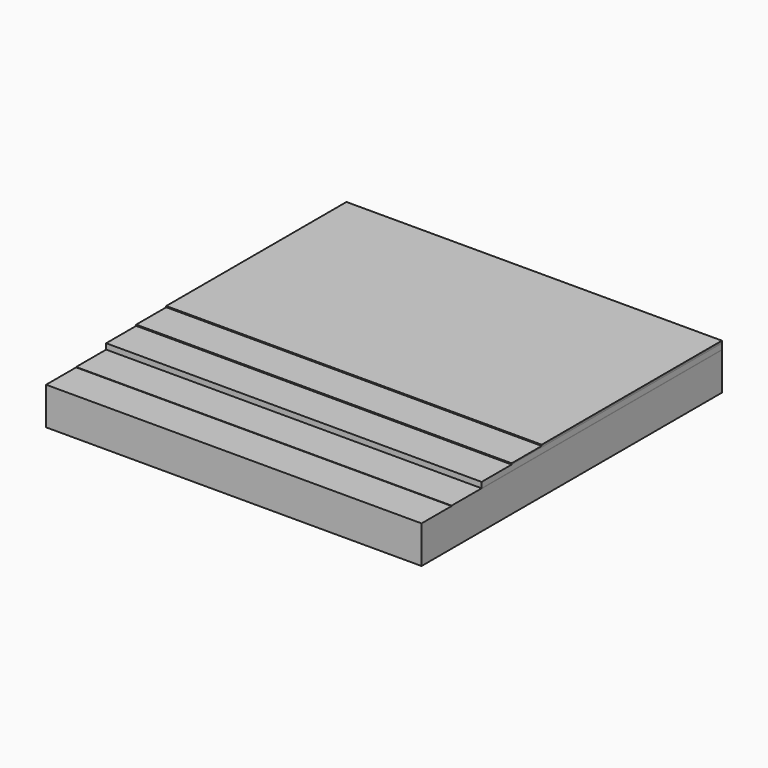
from build123d import *

# Parameters (mm, degrees)
F0_W     = 100
F0_H     = 10
F1_DEPTH = 100
F2_DEPTH = 90
F0_W_2   = 100.003165
F0_H_2   = 1.5
F3_DEPTH = 80
F0_H_3   = 0.3
F4_DEPTH = 70
F5_DEPTH = 60


with BuildPart() as f1:
    # F0 (on Front) → F1 (new body)
    with BuildSketch(Plane.XZ):
        with Locations((-25.116783, -15.660791)):
            Rectangle(F0_W, F0_H)
    extrude(amount=F1_DEPTH)


with BuildPart() as f2:
    # F0 (on Front) → F2 (new body)
    with BuildSketch(Plane.XZ):
        Polygon((-75.116783, -10.560841), (-75.116783, -10.660791), (24.883217, -10.660791), (24.886382, -10.560841), align=None)
    extrude(amount=F2_DEPTH)


with BuildPart() as f3:
    # F0 (on Front) → F3 (new body)
    with BuildSketch(Plane.XZ):
        with Locations((-25.115201, -9.810841)):
            Rectangle(F0_W_2, F0_H_2)
    extrude(amount=F3_DEPTH)


with BuildPart() as f4:
    # F0 (on Front) → F4 (new body)
    with BuildSketch(Plane.XZ):
        with Locations((-25.115201, -8.910841)):
            Rectangle(F0_W_2, F0_H_3)
    extrude(amount=F4_DEPTH)


with BuildPart() as f5:
    # F0 (on Front) → F5 (new body)
    with BuildSketch(Plane.XZ):
        with Locations((-25.115201, -8.610841)):
            Rectangle(F0_W_2, F0_H_3)
    extrude(amount=F5_DEPTH)


solid = Compound([f1.part, f2.part, f3.part, f4.part, f5.part])
